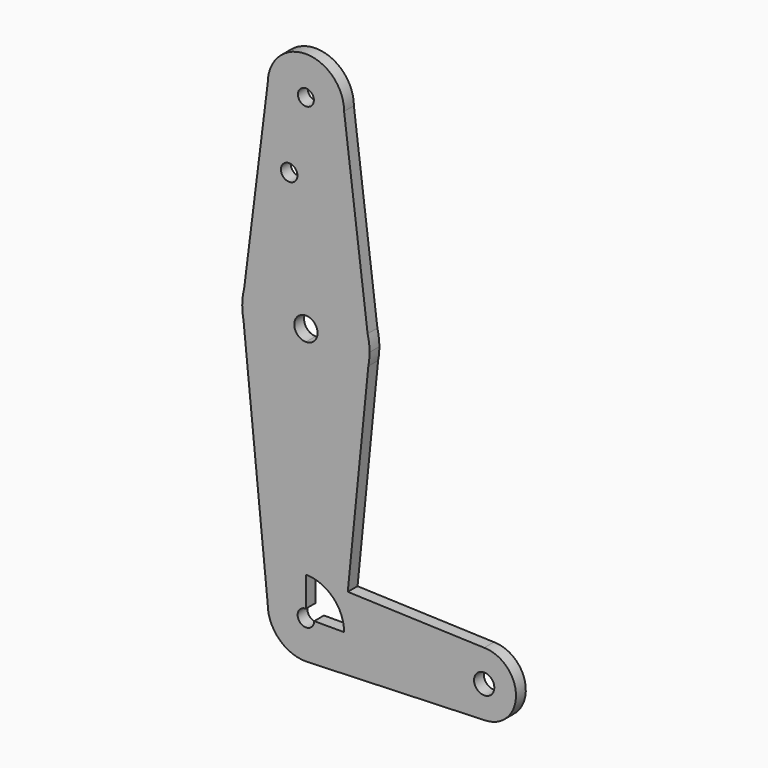
from build123d import *

# Parameters (mm, degrees)
F0_R     = 2.0605204199
F1_DEPTH = 3.048


with BuildPart() as f1:
    # F0 (on Front) → F1 (new body)
    with BuildSketch(Plane.XZ):
        with BuildLine():
            ThreePointArc((-9.525, 114.3), (-6.7351920908, 107.5648079092), (0, 104.775))
            ThreePointArc((0, 104.775), (6.7351920908, 107.5648079092), (9.525, 114.3))
            ThreePointArc((9.525, 114.3), (0, 123.825), (-9.525, 114.3))
        make_face()
        with BuildLine():
            ThreePointArc((1.9868374275, 114.3), (1.4049062181, 112.8950937819), (0, 112.3131625725))
            ThreePointArc((0, 112.3131625725), (-1.4049062181, 115.7049062181), (1.9868374275, 114.3))
        make_face(mode=Mode.SUBTRACT)
        with BuildLine():
            ThreePointArc((9.525, 114.3), (6.7351920908, 107.5648079092), (0, 104.775))
            Line((0, 104.775), (0, 79.375))
            ThreePointArc((0, 79.375), (9.7463072395, 76.0309664508), (15.3865384615, 67.4076923077))
            Line((15.3865384615, 67.4076923077), (9.525, 114.3))
        make_face()
        with BuildLine():
            Line((0, 79.375), (0, 104.775))
            ThreePointArc((0, 104.775), (-6.7351920908, 107.5648079092), (-9.525, 114.3))
            Line((-9.525, 114.3), (-15.3865384615, 67.4076923077))
            ThreePointArc((-15.3865384615, 67.4076923077), (-9.7463072395, 76.0309664508), (0, 79.375))
        make_face()
        with Locations((-4.169956781, 96.4397639036)):
            Circle(F0_R, mode=Mode.SUBTRACT)
        with BuildLine():
            ThreePointArc((15.3865384615, 67.4076923077), (9.7463072395, 76.0309664508), (0, 79.375))
            Line((0, 79.375), (0, 66.4004152305))
            ThreePointArc((0, 66.4004152305), (2.0509032777, 65.5509032777), (2.9004152305, 63.5))
            ThreePointArc((2.9004152305, 63.5), (2.0509032777, 61.4490967223), (0, 60.5995847695))
            Line((0, 60.5995847695), (0, 47.625))
            ThreePointArc((0, 47.625), (10.0526499203, 51.2134278751), (15.5606435644, 60.3564356436))
            Line((15.5606435644, 60.3564356436), (15.875, 63.5))
            Line((15.875, 63.5), (15.3865384615, 67.4076923077))
        make_face()
        with BuildLine():
            Line((0, 66.4004152305), (0, 79.375))
            ThreePointArc((0, 79.375), (-9.7463072395, 76.0309664508), (-15.3865384615, 67.4076923077))
            Line((-15.3865384615, 67.4076923077), (-15.875, 63.5))
            Line((-15.875, 63.5), (-15.5606435644, 60.3564356436))
            ThreePointArc((-15.5606435644, 60.3564356436), (-10.0526499203, 51.2134278751), (0, 47.625))
            Line((0, 47.625), (0, 60.5995847695))
            ThreePointArc((0, 60.5995847695), (-2.9004152305, 63.5), (0, 66.4004152305))
        make_face()
        with BuildLine():
            ThreePointArc((15.875, 63.5), (15.7524112928, 65.4690514116), (15.3865384615, 67.4076923077))
            Line((15.3865384615, 67.4076923077), (15.875, 63.5))
        make_face()
        with BuildLine():
            Line((-15.875, 63.5), (-15.3865384615, 67.4076923077))
            ThreePointArc((-15.3865384615, 67.4076923077), (-15.7524112928, 65.4690514116), (-15.875, 63.5))
        make_face()
        with BuildLine():
            ThreePointArc((15.5606435644, 60.3564356436), (15.7962153946, 61.9203784605), (15.875, 63.5))
            Line((15.875, 63.5), (15.5606435644, 60.3564356436))
        make_face()
        with BuildLine():
            Line((-15.5606435644, 60.3564356436), (-15.875, 63.5))
            ThreePointArc((-15.875, 63.5), (-15.7962153946, 61.9203784605), (-15.5606435644, 60.3564356436))
        make_face()
        with BuildLine():
            ThreePointArc((15.5606435644, 60.3564356436), (10.0526499203, 51.2134278751), (0, 47.625))
            Line((0, 47.625), (0, 9.525))
            ThreePointArc((0, 9.525), (0.3399618281, 9.5189311877), (0.6794904459, 9.5007324841))
            Line((0.6794904459, 9.5007324841), (10.4402135231, 9.1521352313))
            Line((10.4402135231, 9.1521352313), (15.5606435644, 60.3564356436))
        make_face()
        with BuildLine():
            Line((0, 9.525), (0, 47.625))
            ThreePointArc((0, 47.625), (-10.0526499203, 51.2134278751), (-15.5606435644, 60.3564356436))
            Line((-15.5606435644, 60.3564356436), (-9.525, 0))
            ThreePointArc((-9.525, 0), (-6.7351920908, 6.7351920908), (0, 9.525))
        make_face()
        with BuildLine():
            Line((0, 2.0614629346), (0, 9.525))
            ThreePointArc((0, 9.525), (-6.7351920908, 6.7351920908), (-9.525, 0))
            ThreePointArc((-9.525, 0), (-6.7351920908, -6.7351920908), (0, -9.525))
            Line((0, -9.525), (0.6773435479, -9.500885786))
            ThreePointArc((0.6773435479, -9.500885786), (6.9705567315, -6.4912990883), (9.525, 0))
            Line((9.525, 0), (2.0614629346, 0))
            ThreePointArc((2.0614629346, 0), (-1.4576744202, -1.4576744202), (0, 2.0614629346))
        make_face()
        with BuildLine():
            Line((44.45, 7.9375), (10.4402135231, 9.1521352313))
            Line((10.4402135231, 9.1521352313), (9.525, 0))
            Line((9.525, 0), (36.5125, 0))
            ThreePointArc((36.5125, 0), (38.8373399243, 5.6126600757), (44.45, 7.9375))
        make_face()
        with BuildLine():
            Line((9.525, 0), (10.4402135231, 9.1521352313))
            Line((10.4402135231, 9.1521352313), (0.6794904459, 9.5007324841))
            ThreePointArc((0.6794904459, 9.5007324841), (6.9712901065, 6.4905114784), (9.525, 0))
        make_face()
        with BuildLine():
            Line((36.5125, 0), (9.525, 0))
            ThreePointArc((9.525, 0), (6.9705567315, -6.4912990883), (0.6773435479, -9.500885786))
            Line((0.6773435479, -9.500885786), (44.7324052746, -7.9324746146))
            ThreePointArc((44.7324052746, -7.9324746146), (38.9380895153, -5.7116327839), (36.5125, 0))
        make_face()
        with BuildLine():
            ThreePointArc((52.3875, 0), (50.0626600757, 5.6126600757), (44.45, 7.9375))
            ThreePointArc((44.45, 7.9375), (38.8373399243, 5.6126600757), (36.5125, 0))
            ThreePointArc((36.5125, 0), (38.9380895153, -5.7116327839), (44.7324052746, -7.9324746146))
            ThreePointArc((44.7324052746, -7.9324746146), (50.1616327839, -5.5119104847), (52.3875, 0))
        make_face()
        with BuildLine():
            ThreePointArc((46.9742768234, 0), (44.45, -2.5242768234), (41.9257231766, 0))
            ThreePointArc((41.9257231766, 0), (44.45, 2.5242768234), (46.9742768234, 0))
        make_face(mode=Mode.SUBTRACT)
        with BuildLine():
            Line((0.6773435479, -9.500885786), (0, -9.525))
            ThreePointArc((0, -9.525), (0.3388863295, -9.5189695375), (0.6773435479, -9.500885786))
        make_face()
    extrude(amount=F1_DEPTH)


solid = f1.part
